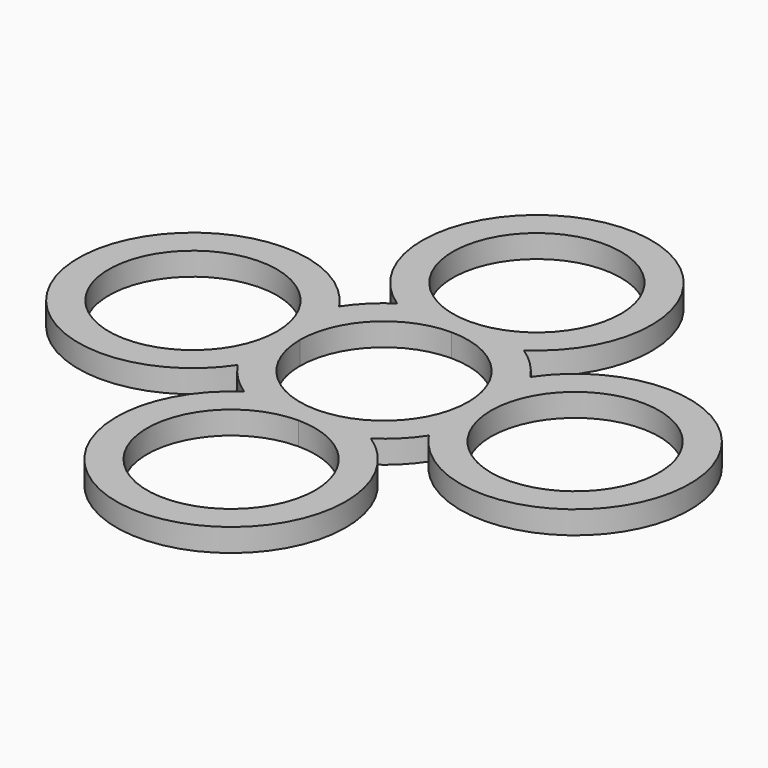
from build123d import *

# Parameters (mm, degrees)
F0_R     = 11
F1_DEPTH = 3


with BuildPart() as f1:
    # F0 (on Top) → F1 (new body)
    with BuildSketch(Plane.XY):
        with BuildLine():
            ThreePointArc((11, -25), (7.778175, -17.221825), (0, -14))
            ThreePointArc((0, -14), (-7.778175, -32.778175), (11, -25))
        make_face()
        with Locations((-25, 0)):
            Circle(F0_R)
        with BuildLine():
            ThreePointArc((11, 25), (-7.778175, 32.778175), (0, 14))
            ThreePointArc((0, 14), (7.778175, 17.221825), (11, 25))
        make_face()
        with BuildLine():
            ThreePointArc((36, 0), (25, 11), (14, 0))
            ThreePointArc((14, 0), (25, -11), (36, 0))
        make_face()
        with BuildLine():
            ThreePointArc((-8.291562, 12.5), (-10.606602, 10.606602), (-12.5, 8.291562))
            ThreePointArc((-12.5, 8.291562), (-40, 0), (-12.5, -8.291562))
            ThreePointArc((-12.5, -8.291562), (-10.606602, -10.606602), (-8.291562, -12.5))
            ThreePointArc((-8.291562, -12.5), (0, -40), (8.291562, -12.5))
            ThreePointArc((8.291562, -12.5), (10.606602, -10.606602), (12.5, -8.291562))
            ThreePointArc((12.5, -8.291562), (40, 0), (12.5, 8.291562))
            ThreePointArc((12.5, 8.291562), (10.606602, 10.606602), (8.291562, 12.5))
            ThreePointArc((8.291562, 12.5), (0, 40), (-8.291562, 12.5))
        make_face()
        with BuildLine():
            ThreePointArc((11, -25), (-7.778175, -32.778175), (0, -14))
            ThreePointArc((0, -14), (7.778175, -17.221825), (11, -25))
        make_face(mode=Mode.SUBTRACT)
        with Locations((-25, 0)):
            Circle(F0_R, mode=Mode.SUBTRACT)
        with BuildLine():
            ThreePointArc((0, 11), (7.778175, 7.778175), (11, 0))
            ThreePointArc((11, 0), (7.778175, -7.778175), (0, -11))
            ThreePointArc((0, -11), (-7.778175, -7.778175), (-11, 0))
            ThreePointArc((-11, 0), (-7.778175, 7.778175), (0, 11))
        make_face(mode=Mode.SUBTRACT)
        with BuildLine():
            ThreePointArc((36, 0), (25, -11), (14, 0))
            ThreePointArc((14, 0), (25, 11), (36, 0))
        make_face(mode=Mode.SUBTRACT)
        with BuildLine():
            ThreePointArc((11, 25), (7.778175, 17.221825), (0, 14))
            ThreePointArc((0, 14), (-7.778175, 32.778175), (11, 25))
        make_face(mode=Mode.SUBTRACT)
    extrude(amount=F1_DEPTH)


solid = f1.part
